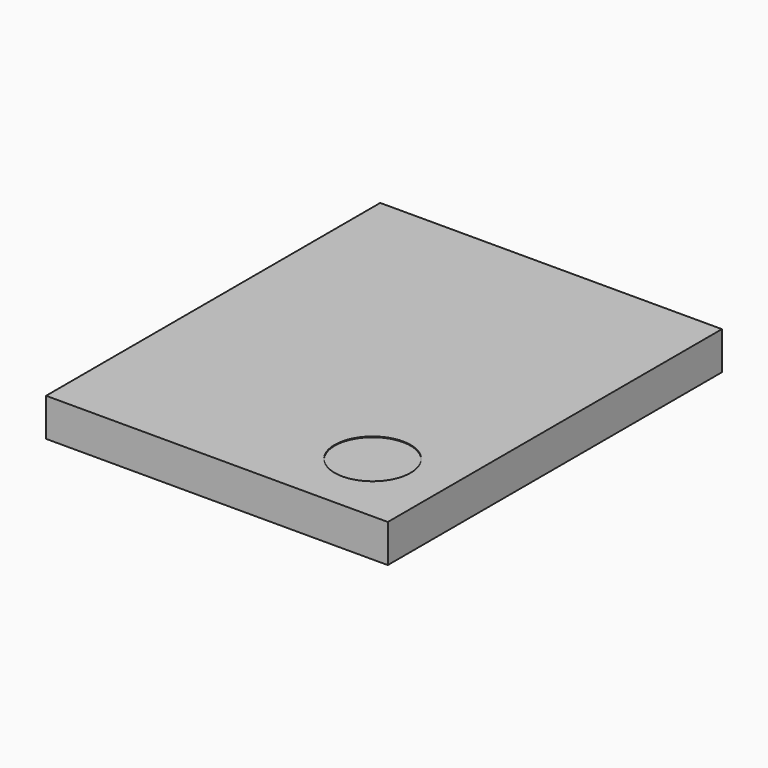
from build123d import *

# Parameters (mm, degrees)
CYLINDER021_R          = 0.5
CYLINDER021_DEPTH      = 0.01
BOX060_W               = 4.5
BOX060_H               = 5.5
BOX060_DEPTH           = 0.5
CUT011_PLACEMENT_ANGLE = 180


with BuildPart() as cylinder021:
    # Cylinder021 → Cylinder021 (new body)
    with BuildSketch(Plane(origin=(1, 4.5, 0.49), x_dir=(1, 0, 0), z_dir=(0, 0, 1))):
        Circle(CYLINDER021_R)
    extrude(amount=CYLINDER021_DEPTH)


with BuildPart() as obj1:
    # Box060 → Box060 (new body)
    with BuildSketch(Plane.XY):
        with Locations((2.25, 2.75)):
            Rectangle(BOX060_W, BOX060_H)
    extrude(amount=BOX060_DEPTH)

    # Cut011: cut Cylinder021
    add(cylinder021.part, mode=Mode.SUBTRACT)


with BuildPart() as obj1_1:
    # Cut011 placement: moved
    add(obj1.part.moved(Location((2.12, 3.12, 3.34))).rotate(Axis((2.12, 3.12, 3.34), (0, 0, 1)), CUT011_PLACEMENT_ANGLE))


solid = obj1_1.part
